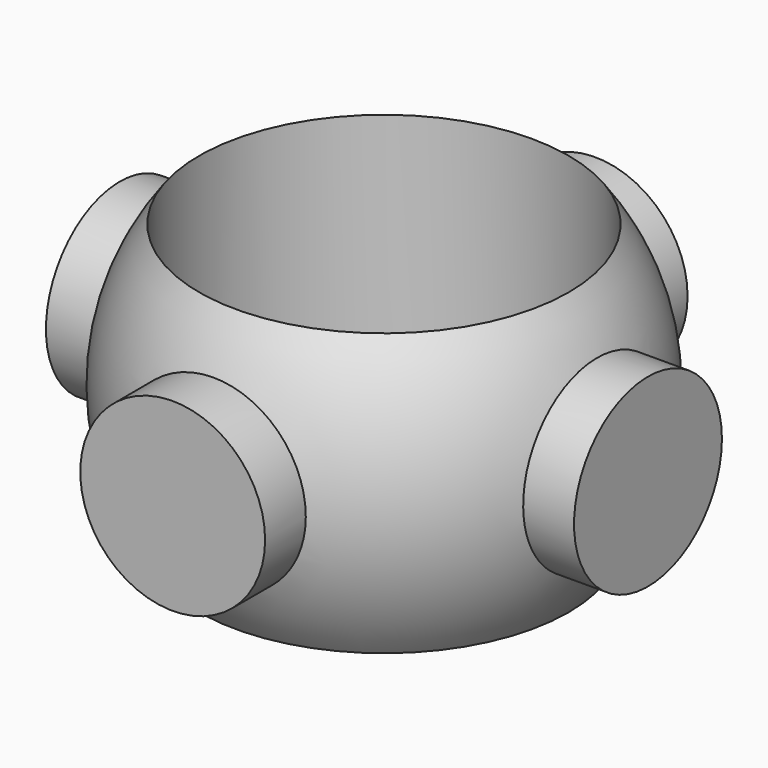
from build123d import *

# Parameters (mm, degrees)
F0_R     = 2.2225
F3_DEPTH = 6.35
F1_R     = 2.2225
F4_DEPTH = 6.35
F6_R     = 4.445
F7_DEPTH = 12.7


with BuildPart() as f3:
    # F0 (on Right) → F3 (new body, symmetric)
    with BuildSketch(Plane.YZ):
        Circle(F0_R)
    extrude(amount=F3_DEPTH, both=True)

    # F1 (on Front) → F4 (join, symmetric)
    with BuildSketch(Plane.XZ):
        Circle(F1_R)
    extrude(amount=F4_DEPTH, both=True)

    # F2 (on Right) → F5 (revolve)
    with BuildSketch(Plane.YZ):
        with BuildLine():
            Line((0, 5.588), (0, -5.588))
            ThreePointArc((0, -5.588), (5.588, 0), (0, 5.588))
        make_face()
    revolve(axis=Axis((0, 0, -0.972137), (0, 0, -1)))

    # F6 (on Top) → F7 (cut, symmetric)
    with BuildSketch(Plane.XY):
        Circle(F6_R)
    extrude(amount=F7_DEPTH, both=True, mode=Mode.SUBTRACT)


solid = f3.part
